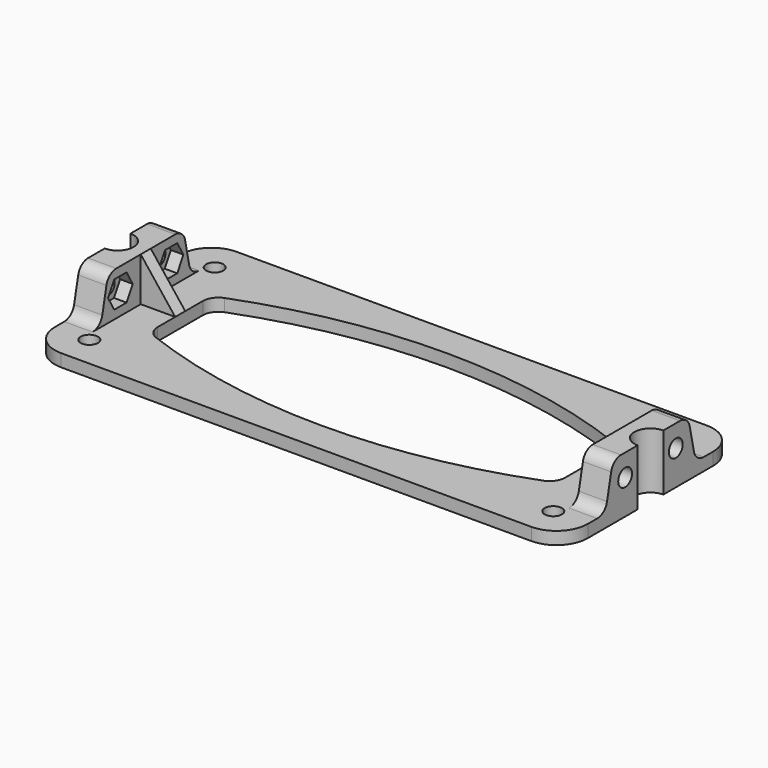
from build123d import *

# Parameters (mm, degrees)
F0_R      = 2.75
F1_DEPTH  = 4
F2_R      = 2.75
F3_DEPTH  = 9
F5_DEPTH  = 4
F7_R      = 5.125
F8_DEPTH  = 18.001
F10_DEPTH = 2


with BuildPart() as f1:
    # F0 (on Top) → F1 (new body)
    with BuildSketch(Plane.XY):
        with BuildLine():
            ThreePointArc((85, 25), (82.071068, 32.071068), (75, 35))
            Line((75, 35), (-75, 35))
            ThreePointArc((-75, 35), (-82.071068, 32.071068), (-85, 25))
            Line((-85, 25), (-85, -25))
            ThreePointArc((-85, -25), (-82.071068, -32.071068), (-75, -35))
            Line((-75, -35), (75, -35))
            ThreePointArc((75, -35), (82.071068, -32.071068), (85, -25))
            Line((85, -25), (85, 25))
        make_face()
        with Locations((-74, -25)):
            Circle(F0_R, mode=Mode.SUBTRACT)
        with Locations((74, -25)):
            Circle(F0_R, mode=Mode.SUBTRACT)
        with BuildLine():
            ThreePointArc((61.773717, 13.674819), (64.11513, 11.840019), (65, 9))
            Line((65, 9), (65, -9))
            ThreePointArc((65, -9), (64.11513, -11.840019), (61.773717, -13.674819))
            ThreePointArc((61.773717, -13.674819), (0, -25), (-61.773717, -13.674819))
            ThreePointArc((-61.773717, -13.674819), (-64.11513, -11.840019), (-65, -9))
            Line((-65, -9), (-65, 9))
            ThreePointArc((-65, 9), (-64.11513, 11.840019), (-61.773717, 13.674819))
            ThreePointArc((-61.773717, 13.674819), (0, 25), (61.773717, 13.674819))
        make_face(mode=Mode.SUBTRACT)
        with Locations((-74, 25)):
            Circle(F0_R, mode=Mode.SUBTRACT)
        with Locations((74, 25)):
            Circle(F0_R, mode=Mode.SUBTRACT)
    extrude(amount=F1_DEPTH)

    # F6: F3 across plane


with BuildPart() as f3:
    # F2 (on face) → F3 (new body)
    with BuildSketch(Plane(origin=(-85, 0, 0), x_dir=(0, -1, 0), z_dir=(-1, 0, 0))):
        with BuildLine():
            ThreePointArc((-17.318548, 7.163017), (-18.714839, 4.8897), (-21.23, 4))
            Line((-21.23, 4), (21.23, 4))
            ThreePointArc((21.23, 4), (18.714839, 4.8897), (17.318548, 7.163017))
            Line((17.318548, 7.163017), (15.676452, 14.836983))
            ThreePointArc((15.676452, 14.836983), (14.280161, 17.1103), (11.765, 18))
            Line((11.765, 18), (-11.765, 18))
            ThreePointArc((-11.765, 18), (-14.280161, 17.1103), (-15.676452, 14.836983))
            Line((-15.676452, 14.836983), (-17.318548, 7.163017))
        make_face()
        with Locations((-10.11, 11)):
            Circle(F2_R, mode=Mode.SUBTRACT)
        with Locations((10.11, 11)):
            Circle(F2_R, mode=Mode.SUBTRACT)
    extrude(amount=-F3_DEPTH)

    # F4 (on face) → F5 (cut)
    with BuildSketch(Plane.YZ.offset(-76)):
        Polygon((-5.202523, 11), (-7.656261, 15.25), (-12.563739, 15.25), (-15.017477, 11), (-12.563739, 6.75), (-7.656261, 6.75), align=None)
        Polygon((5.202523, 11), (7.656261, 6.75), (12.563739, 6.75), (15.017477, 11), (12.563739, 15.25), (7.656261, 15.25), align=None)
    extrude(amount=-F5_DEPTH, mode=Mode.SUBTRACT)


with BuildPart() as f1_1:
    add(f1.part)
    add(f3.part.mirror(Plane.YZ))


with BuildPart() as f8_tool:
    # F7 (on face) → F8 (new body, through all)
    with BuildSketch(Plane(origin=(0, 0, 0), x_dir=(1, 0, 0), z_dir=(0, 0, -1))):
        with Locations((-85, 0)):
            Circle(F7_R)
        with Locations((85, 0)):
            Circle(F7_R)
    extrude(amount=-F8_DEPTH)


with BuildPart() as f1_2:
    add(f1_1.part)

    # F8: cut by f8_tool
    add(f8_tool.part, mode=Mode.SUBTRACT)



with BuildPart() as f3_1:
    add(f3.part)

    # F8: cut by f8_tool
    add(f8_tool.part, mode=Mode.SUBTRACT)


with BuildPart() as f1_3:
    add(f1_2.part)

    add(f3_1.part)  # F10 merges F3
    # F9 (on Front) → F10 (join, symmetric)
    with BuildSketch(Plane.XZ):
        Polygon((-65, 4), (-76, 18), (-76, 4), align=None)
        Polygon((76, 4), (76, 18), (65, 4), align=None)
    extrude(amount=F10_DEPTH, both=True)


solid = f1_3.part
